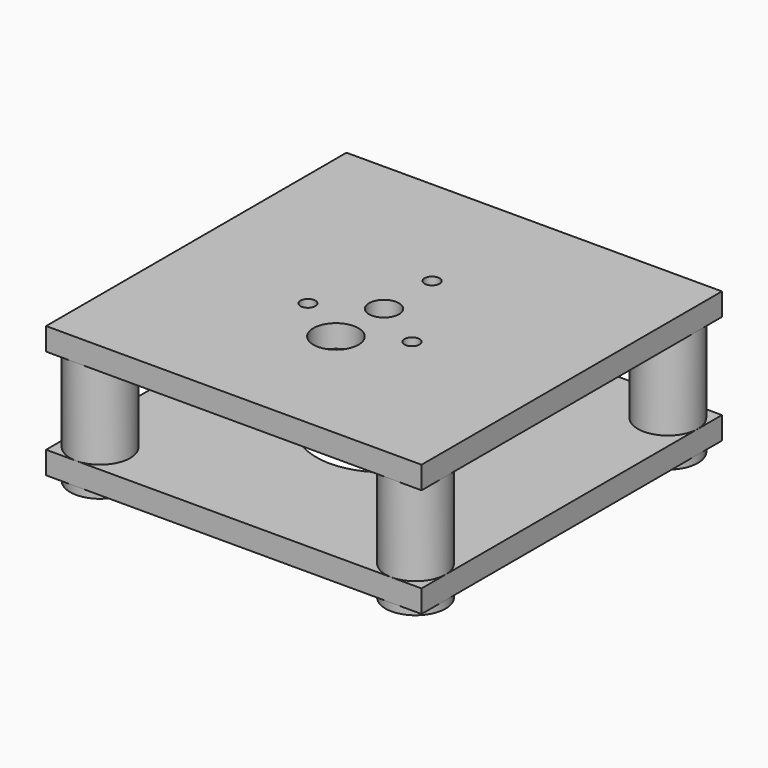
from build123d import *

# Parameters (mm, degrees)
SKETCH_W          = 50
SKETCH_H          = 50
SKETCH_R          = 9
PAD_DEPTH         = 3
SKETCH001_R       = 4
PAD001_DEPTH      = 1
PAD001_DEPTH_BACK = 14.5
SKETCH002_W       = 50
SKETCH002_H       = 50
SKETCH002_R       = 1
SKETCH002_R_2     = 3
SKETCH002_R_3     = 2
PAD002_DEPTH      = 3
FILLET_R          = 2


with BuildPart() as part:
    # Sketch → Pad (new body)
    with BuildSketch(Plane.XY):
        Rectangle(SKETCH_W, SKETCH_H)
        Circle(SKETCH_R, mode=Mode.SUBTRACT)
    extrude(amount=PAD_DEPTH)

    # Sketch001 (on Face6 of Pad) → Pad001 (join, two sides)
    with BuildSketch(Plane(origin=(0, 0, 0), x_dir=(1, 0, 0), z_dir=(0, 0, -1))) as pad001_sk:
        with Locations((-21, 21)):
            Circle(SKETCH001_R)
        with Locations((21, 21)):
            Circle(SKETCH001_R)
        with Locations((21, -21)):
            Circle(SKETCH001_R)
        with Locations((-21, -21)):
            Circle(SKETCH001_R)
    extrude(amount=PAD001_DEPTH)
    extrude(pad001_sk.sketch, amount=-PAD001_DEPTH_BACK)

    # Sketch002 (on Face25 of Pad001) → Pad002 (join)
    with BuildSketch(Plane.XY.offset(14.5)):
        Rectangle(SKETCH002_W, SKETCH002_H)
        with Locations((0, 8)):
            Circle(SKETCH002_R, mode=Mode.SUBTRACT)
        with Locations((6.928203, -4)):
            Circle(SKETCH002_R, mode=Mode.SUBTRACT)
        with Locations((-6.928203, -4)):
            Circle(SKETCH002_R, mode=Mode.SUBTRACT)
        with Locations((0, -8)):
            Circle(SKETCH002_R_2, mode=Mode.SUBTRACT)
        Circle(SKETCH002_R_3, mode=Mode.SUBTRACT)
    extrude(amount=PAD002_DEPTH)

    # Fillet
    fillet_edges = [part.edges().sort_by_distance(p)[0] for p in [
        (-9, 0, 0),
    ]]
    fillet(fillet_edges, radius=FILLET_R)


solid = part.part
